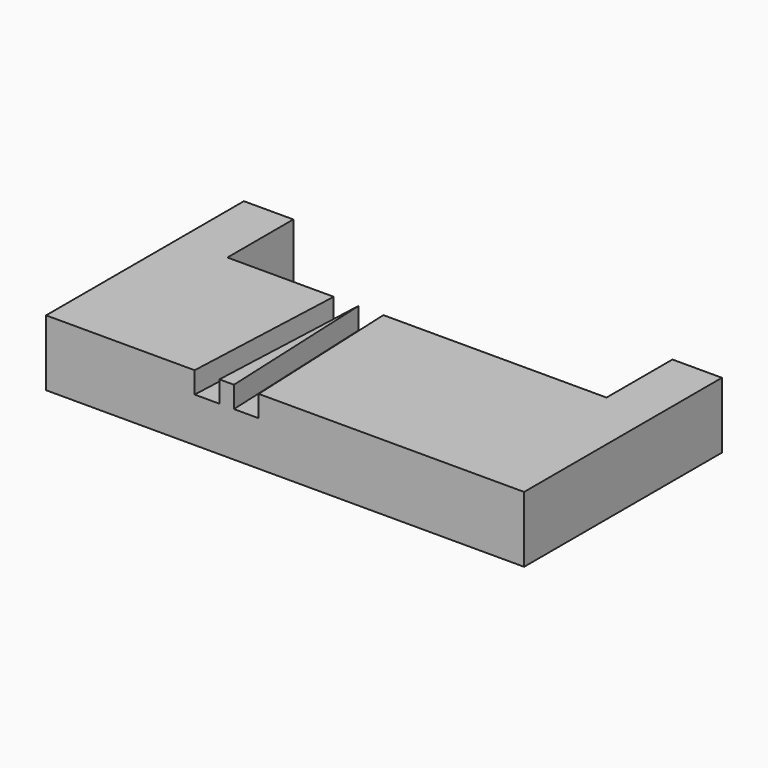
from build123d import *

# Parameters (mm, degrees)
PAD_DEPTH       = 4
SKETCH001_W     = 12
SKETCH001_H     = 2.5
POCKET_DEPTH    = 2
POCKET001_DEPTH = 1.3


with BuildPart() as part:
    # Sketch → Pad (new body)
    with BuildSketch(Plane.XY):
        Polygon((-14.5, 7.5), (-11.5, 7.5), (-11.5, 2.5), (11.5, 2.5), (11.5, 7.5), (14.5, 7.5), (14.5, -7.5), (-14.5, -7.5), align=None)
    extrude(amount=PAD_DEPTH)

    # Sketch001 (on Face9 of Pad) → Pocket (cut)
    with BuildSketch(Plane(origin=(0, 0, 0), x_dir=(1, 0, 0), z_dir=(0, 0, -1))):
        with Locations((-5.5, -1.25)):
            Rectangle(SKETCH001_W, SKETCH001_H)
    extrude(amount=-POCKET_DEPTH, mode=Mode.SUBTRACT)

    # Sketch002 (on Face5 of Pocket) → Pocket001 (cut)
    with BuildSketch(Plane.XY.offset(4)):
        Polygon((-5.050715, 2.5), (-5.487324, -7.5), (-3.985895, -7.5), (-3.549285, 2.5), align=None)
        Polygon((-3.539285, 2.5), (-3.102676, -7.5), (-1.601247, -7.5), (-2.037856, 2.5), align=None)
    extrude(amount=-POCKET001_DEPTH, mode=Mode.SUBTRACT)


solid = part.part
